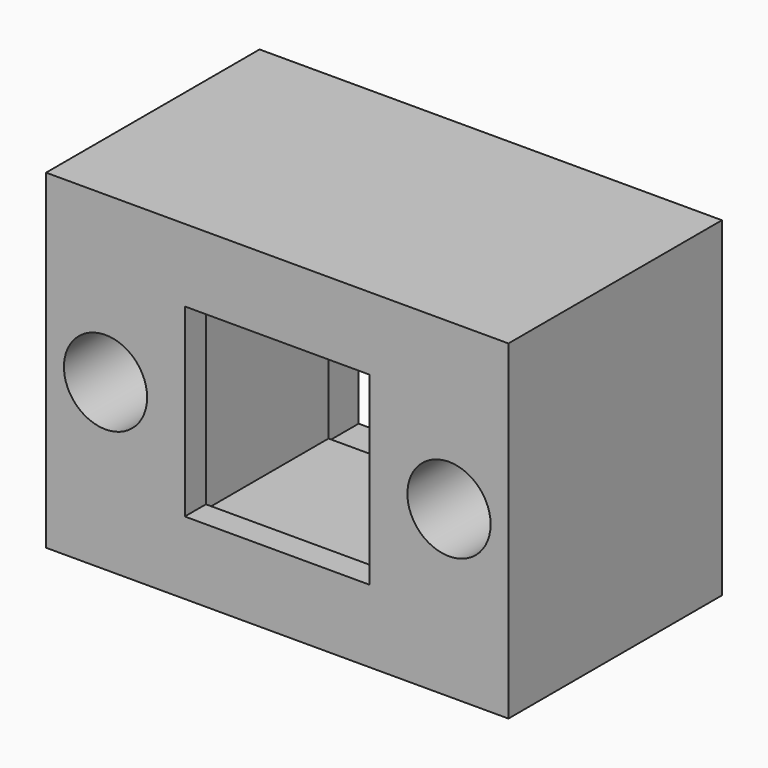
from build123d import *

# Parameters (mm, degrees)
F0_W     = 35
F0_H     = 25
F0_R     = 1.6
F0_W_2   = 20
F0_H_2   = 20
F1_DEPTH = 4.1
F2_W     = 35
F2_H     = 25
F2_R     = 3.15
F2_W_2   = 18
F2_H_2   = 18
F3_DEPTH = 14.1
F4_W     = 35
F4_H     = 25
F4_R     = 3.15
F4_W_2   = 14
F4_H_2   = 14
F5_DEPTH = 2
F6_W     = 18
F6_H     = 18
F7_DEPTH = 5


with BuildPart() as f1:
    # F0 (on Front) → F1 (new body)
    with BuildSketch(Plane.XZ):
        Rectangle(F0_W, F0_H)
        with Locations((-13, 0)):
            Circle(F0_R, mode=Mode.SUBTRACT)
        Rectangle(F0_W_2, F0_H_2, mode=Mode.SUBTRACT)
        with Locations((13, 0)):
            Circle(F0_R, mode=Mode.SUBTRACT)
    extrude(amount=F1_DEPTH)

    # F2 (on face) → F3 (join)
    with BuildSketch(Plane.XZ.offset(4.1)):
        Rectangle(F2_W, F2_H)
        with Locations((-13, 0)):
            Circle(F2_R, mode=Mode.SUBTRACT)
        Rectangle(F2_W_2, F2_H_2, mode=Mode.SUBTRACT)
        with Locations((13, 0)):
            Circle(F2_R, mode=Mode.SUBTRACT)
    extrude(amount=F3_DEPTH)

    # F4 (on face) → F5 (join)
    with BuildSketch(Plane.XZ.offset(18.2)):
        Rectangle(F4_W, F4_H)
        with Locations((-13, 0)):
            Circle(F4_R, mode=Mode.SUBTRACT)
        Rectangle(F4_W_2, F4_H_2, mode=Mode.SUBTRACT)
        with Locations((13, 0)):
            Circle(F4_R, mode=Mode.SUBTRACT)
    extrude(amount=F5_DEPTH)

    # F6 (on face) → F7 (cut)
    with BuildSketch(Plane(origin=(0, -4.1, 0), x_dir=(-1, 0, 0), z_dir=(0, 1, 0))):
        Rectangle(F6_W, F6_H)
    extrude(amount=-F7_DEPTH, mode=Mode.SUBTRACT)


solid = f1.part
